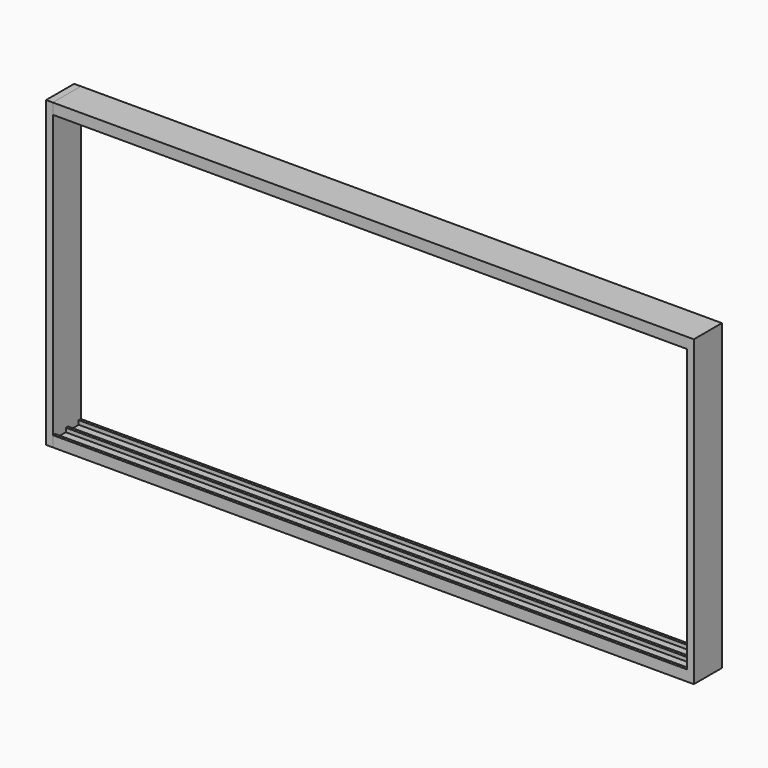
from build123d import *

# Parameters (mm, degrees)
F1_DEPTH = 2.6
F2_W     = 94
F2_H     = 0.6
F3_DEPTH = 0.2
F4_W     = 94
F4_H     = 0.6
F5_DEPTH = 0.4
F6_W     = 94
F6_H     = 0.6
F7_DEPTH = 0.4
F8_W     = 5.2
F8_H     = 45
F9_DEPTH = 1


with BuildPart() as f1:
    # F0 (on Front) → F1 (new body, symmetric)
    with BuildSketch(Plane.XZ):
        Polygon((1, 1), (1, 0), (96, 0), (96, 45), (1, 45), (1, 44), (95, 44), (95, 1), align=None)
    extrude(amount=F1_DEPTH, both=True)

    # F2 (on Front) → F3 (join, symmetric)
    with BuildSketch(Plane.XZ):
        with Locations((48, 43.7)):
            Rectangle(F2_W, F2_H)
        with Locations((48, 1.3)):
            Rectangle(F2_W, F2_H)
    extrude(amount=F3_DEPTH, both=True)

    # F4 (on face) → F5 (join)
    with BuildSketch(Plane.XZ.offset(2.6)):
        with Locations((48, 1.3)):
            Rectangle(F4_W, F4_H)
        with Locations((48, 43.7)):
            Rectangle(F4_W, F4_H)
    extrude(amount=-F5_DEPTH)

    # F6 (on face) → F7 (join)
    with BuildSketch(Plane(origin=(0, 2.6, 0), x_dir=(-1, 0, 0), z_dir=(0, 1, 0))):
        with Locations((-48, 1.3)):
            Rectangle(F6_W, F6_H)
        with Locations((-48, 43.7)):
            Rectangle(F6_W, F6_H)
    extrude(amount=-F7_DEPTH)


with BuildPart() as f9:
    # F8 (on face) → F9 (new body)
    with BuildSketch(Plane(origin=(1, 0, 0), x_dir=(0, -1, 0), z_dir=(-1, 0, 0))):
        with Locations((0, 22.5)):
            Rectangle(F8_W, F8_H)
    extrude(amount=F9_DEPTH)


solid = Compound([f1.part, f9.part])
